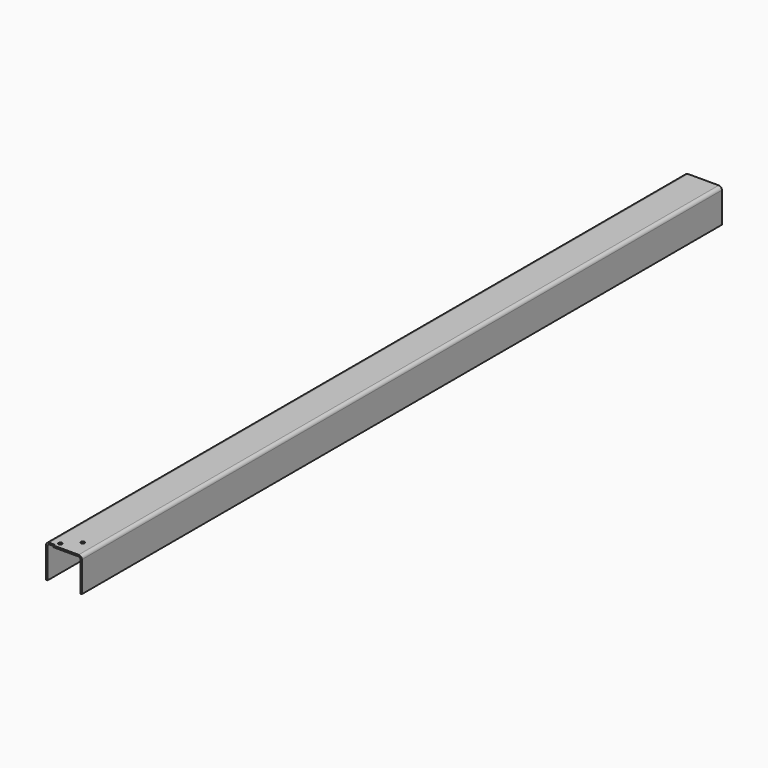
from build123d import *

# Parameters (mm, degrees)
F1_DEPTH = 1996
F3_W     = 4
F3_H     = 87
F4_DEPTH = 21.409
F6_R     = 4.5
F5_R     = 4.5
F7_DEPTH = 4


with BuildPart() as f1:
    # F0 (on Front) → F1 (new body)
    with BuildSketch(Plane.XZ):
        with BuildLine():
            Line((-46.25, 34), (-46.25, -42))
            Line((-46.25, -42), (-42.25, -42))
            Line((-42.25, -42), (-42.25, 34))
            ThreePointArc((-42.25, 34), (-41.078427, 36.828427), (-38.25, 38))
            Line((-38.25, 38), (38.25, 38))
            ThreePointArc((38.25, 38), (41.078427, 36.828427), (42.25, 34))
            Line((42.25, 34), (42.25, -42))
            Line((42.25, -42), (46.25, -42))
            Line((46.25, -42), (46.25, 34))
            ThreePointArc((46.25, 34), (43.906854, 39.656854), (38.25, 42))
            Line((38.25, 42), (-38.25, 42))
            ThreePointArc((-38.25, 42), (-43.906854, 39.656854), (-46.25, 34))
        make_face()
    extrude(amount=-F1_DEPTH)

    # F3 (on face) → F4 (cut)
    with BuildSketch(Plane(origin=(-46.25, 0, 0), x_dir=(0, -1, 0), z_dir=(-1, 0, 0))):
        with Locations((-2, 0.370724)):
            Rectangle(F3_W, F3_H)
    extrude(amount=-F4_DEPTH, mode=Mode.SUBTRACT)

    # F6 (on face) + F5 (on face) → F7 (cut)
    with BuildSketch(Plane(origin=(0, 0, 38), x_dir=(1, 0, 0), z_dir=(0, 0, -1))):
        with Locations((12.063, -45.5)):
            Circle(F6_R)
    with BuildSketch(Plane(origin=(0, 0, 38), x_dir=(1, 0, 0), z_dir=(0, 0, -1))):
        with Locations((-18.92, -14.5)):
            Circle(F5_R)
    extrude(amount=-F7_DEPTH, mode=Mode.SUBTRACT)


solid = f1.part
